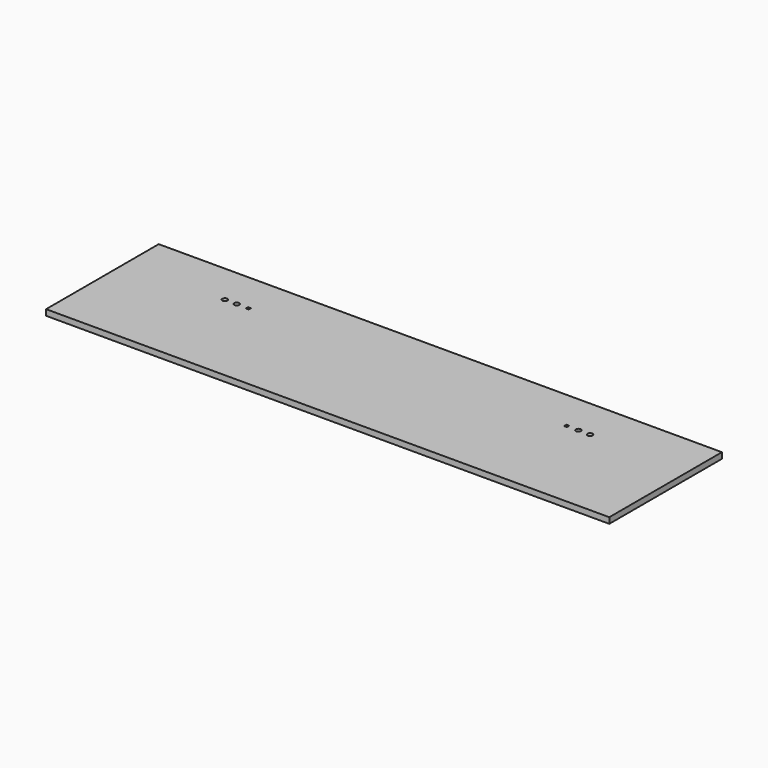
from build123d import *

# Parameters (mm, degrees)
F0_W     = 609.6
F0_H     = 152.4
F1_DEPTH = 6.35
F2_R     = 2.7559
F2_W     = 3.175
F2_H     = 3.175
F3_DEPTH = 6.35


with BuildPart() as f1:
    # F0 (on Top) → F1 (new body)
    with BuildSketch(Plane.XY):
        Rectangle(F0_W, F0_H)
    extrude(amount=F1_DEPTH)

    # F2 (on face) → F3 (cut)
    with BuildSketch(Plane.XY.offset(6.35)):
        with Locations((-184.94375, 31.75)):
            Circle(F2_R)
        with Locations((-197.64375, 31.75)):
            Circle(F2_R)
        with Locations((184.94375, 31.75)):
            Circle(F2_R)
        with Locations((197.64375, 31.75)):
            Circle(F2_R)
        with Locations((-172.24375, 31.75)):
            Rectangle(F2_W, F2_H)
        with Locations((172.24375, 31.75)):
            Rectangle(F2_W, F2_H)
    extrude(amount=-F3_DEPTH, mode=Mode.SUBTRACT)


solid = f1.part
